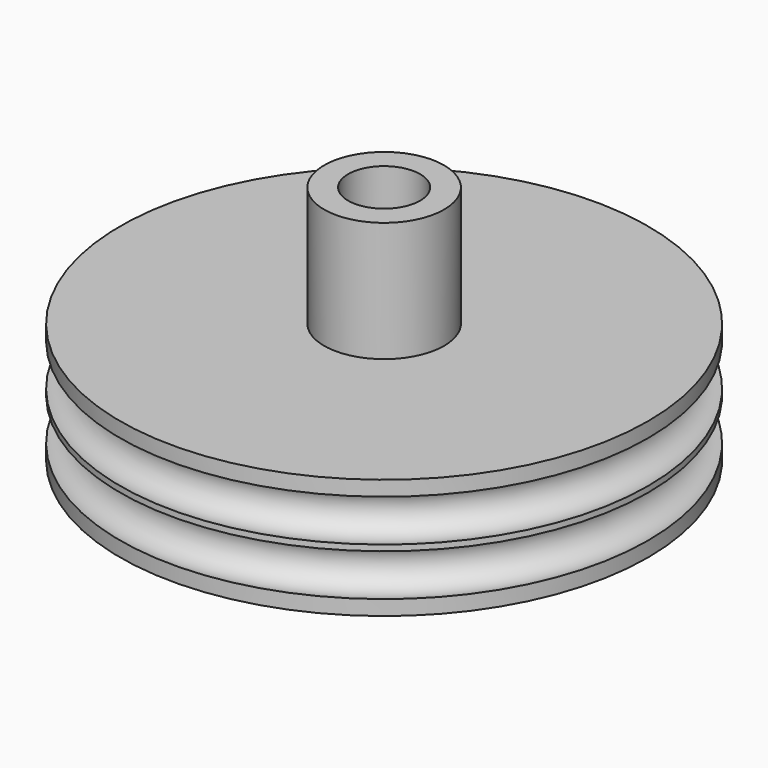
from build123d import *

# Parameters (mm, degrees)
CYLINDER020_R     = 1.5
CYLINDER020_DEPTH = 22
TORUS003_R        = 0.9
TORUS002_R        = 0.9
CYLINDER018_R     = 11
CYLINDER018_DEPTH = 5
CYLINDER017_R     = 1.5
CYLINDER017_DEPTH = 10
CYLINDER019_R     = 2.5
CYLINDER019_DEPTH = 10


with BuildPart() as cylinder020:
    # Cylinder020 → Cylinder020 (new body)
    with BuildSketch(Plane.XY.offset(-4)):
        Circle(CYLINDER020_R)
    extrude(amount=CYLINDER020_DEPTH)


with BuildPart() as torus003:
    # Torus003 → Torus003 (revolve)
    with BuildSketch(Plane(origin=(0, 0, -0.5), x_dir=(1, 0, 0), z_dir=(0, -1, 0))):
        with Locations((10.8, 0)):
            Circle(TORUS003_R)
    revolve(axis=Axis((0, 0, -0.5), (0, 0, 1)))


with BuildPart() as torus002:
    # Torus002 → Torus002 (revolve)
    with BuildSketch(Plane(origin=(0, 0, 1.5), x_dir=(1, 0, 0), z_dir=(0, -1, 0))):
        with Locations((10.8, 0)):
            Circle(TORUS002_R)
    revolve(axis=Axis((0, 0, 1.5), (0, 0, 1)))


with BuildPart() as cylinder018:
    # Cylinder018 → Cylinder018 (new body)
    with BuildSketch(Plane.XY.offset(-2)):
        Circle(CYLINDER018_R)
    extrude(amount=CYLINDER018_DEPTH)


with BuildPart() as cylinder017:
    # Cylinder017 → Cylinder017 (new body)
    with BuildSketch(Plane.XY.offset(-2)):
        Circle(CYLINDER017_R)
    extrude(amount=CYLINDER017_DEPTH)


with BuildPart() as cut013:
    # Cylinder019 → Cylinder019 (new body)
    with BuildSketch(Plane.XY.offset(-2)):
        Circle(CYLINDER019_R)
    extrude(amount=CYLINDER019_DEPTH)

    # Cut010: cut Cylinder017
    add(cylinder017.part, mode=Mode.SUBTRACT)

    # Fusion012: union Cylinder018
    add(cylinder018.part)

    # Cut011: cut Torus002
    add(torus002.part, mode=Mode.SUBTRACT)

    # Cut012: cut Torus003
    add(torus003.part, mode=Mode.SUBTRACT)

    # Cut013: cut Cylinder020
    add(cylinder020.part, mode=Mode.SUBTRACT)


with BuildPart() as cut013_1:
    # Cut013 placement: moved
    add(cut013.part.moved(Location((47, 54, 16))))


solid = cut013_1.part
